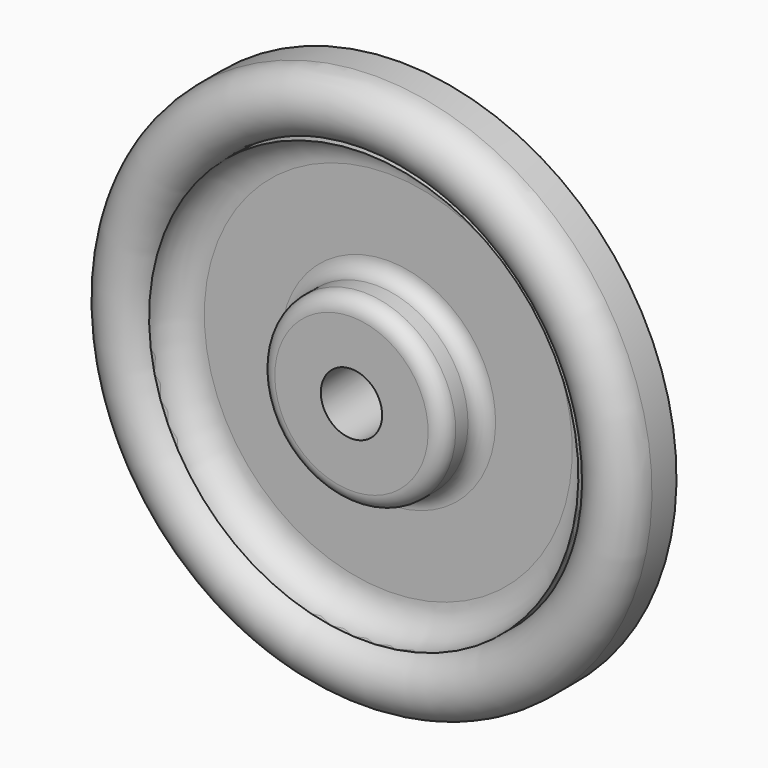
from build123d import *

# Parameters (mm, degrees)
F2_R = 3.175


with BuildPart() as f1:
    # F0 (on Right) → F1 (revolve)
    with BuildSketch(Plane.YZ):
        with BuildLine():
            Line((-12.7, 6.35), (0, 6.35))
            Line((0, 6.35), (0, 57.15))
            Line((0, 57.15), (-6.35, 57.15))
            ThreePointArc((-6.35, 57.15), (-12.7, 50.8), (-6.35, 44.45))
            Line((-6.35, 44.45), (-9.525, 44.45))
            ThreePointArc((-9.525, 44.45), (-5.034872, 42.590128), (-3.175, 38.1))
            Line((-3.175, 38.1), (-3.175, 19.05))
            Line((-3.175, 19.05), (-12.7, 19.05))
            Line((-12.7, 19.05), (-12.7, 6.35))
        make_face()
    revolve(axis=Axis((0, 10.707394, 0), (0, 1, 0)))

    # F2
    f2_edges = [f1.edges().sort_by_distance(p)[0] for p in [
        (0, -3.175, -19.05),
        (0, -12.7, -19.05),
    ]]
    fillet(f2_edges, radius=F2_R)


solid = f1.part
